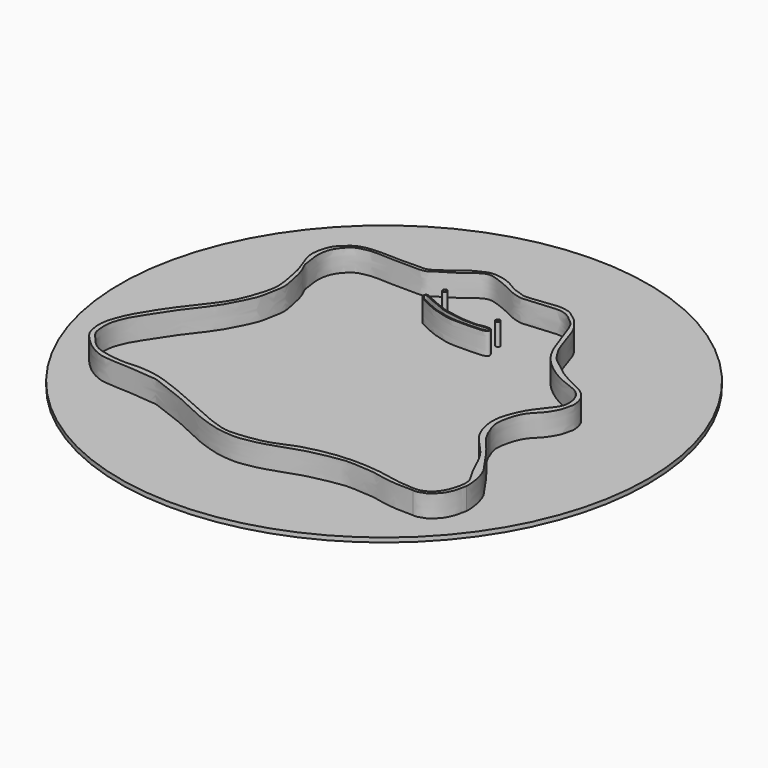
from build123d import *

# Parameters (mm, degrees)
F1_DEPTH = 5
F0_R     = 0.5
F0_R_2   = 0.4019088988
F0_R_3   = 0.3807974737
F2_R     = 60
F3_DEPTH = 1


with BuildPart() as f1:
    # F0 (on Top) → F1 (new body)
    with BuildSketch(Plane.XY):
        with BuildLine():
            add(Edge.make_bspline(
                [(0.9019973658, 34.2074594882), (1.5007506377, 33.9784894893), (2.640191058, 33.5427546314), (4.0934646266, 33.7217133103), (6.4395176008, 34.0002020957), (7.857401485, 34.2187022724), (10.1894956538, 34.4372873604), (11.557136625, 34.2227313812), (12.7937884439, 33.968567562), (13.9776310674, 32.9841589885), (15.4809917483, 31.9807538744), (16.4732420024, 30.5869937867), (17.0183017612, 29.8213779211)],
                knots=[0, 0, 0, 0, 0.1012928046, 0.1927623969, 0.3064661487, 0.3998824342, 0.5132845397, 0.6025944378, 0.6847700242, 0.7764089052, 0.8771776498, 1, 1, 1, 1], degree=3))
            add(Edge.make_bspline(
                [(-34.4537368375, 13.5981210018), (-34.6274501531, 14.570419284), (-34.9637470169, 16.4527209471), (-35.8309585023, 18.7781171402), (-36.7966806248, 21.2523054042), (-37.0213667547, 22.9143775057), (-36.8116340724, 24.5471250748), (-36.3269288421, 26.3833008742), (-35.4532590511, 27.8712313863), (-33.6368939706, 29.4809436959), (-32.5165364282, 30.2500905592), (-30.3555616979, 30.7735501388), (-28.6864170066, 30.8734054085), (-26.2397414502, 30.9337518934), (-23.192175899, 30.6889586097), (-19.7953166092, 30.9961106148), (-17.3312758925, 30.6712699107), (-15.368968181, 32.0275028003), (-12.7925622226, 33.7344098783), (-11.2861162316, 35.2486571282), (-9.6396548219, 35.9868285709), (-7.8575667448, 36.9577012932), (-5.9938634638, 36.9804554242), (-3.9166036402, 36.5358251697), (-2.3753484366, 35.8609653259), (-1.1301171875, 35.0376864776), (-0.0299595415, 34.4491945531), (0.6055590799, 34.2843509493), (0.9019973658, 34.2074594882)],
                knots=[0, 0, 0, 0, 0.0456850162, 0.0884430051, 0.1319456261, 0.1664412478, 0.2006038253, 0.2372152687, 0.2728880319, 0.3140375703, 0.3459252541, 0.3849488964, 0.4201416007, 0.4615226973, 0.5091236179, 0.5589902613, 0.6001519517, 0.6407390807, 0.6882580573, 0.7273726599, 0.7631068714, 0.8008747043, 0.837312223, 0.8763487026, 0.9112898359, 0.9440554126, 0.9739045922, 1, 1, 1, 1], degree=3))
            add(Edge.make_bspline(
                [(33.8894052299, -36.9521795011), (33.0808570617, -36.9622307109), (31.521325449, -36.9816175329), (29.4483074504, -36.8420635389), (27.2655975796, -36.6154926525), (24.7806355381, -36.037789552), (23.4308080209, -35.826385576), (21.8452481268, -35.8354042539), (20.4557402288, -35.6041019139), (17.6615554352, -35.5451971541), (16.7393525781, -35.6437536933), (12.5882306641, -36.3302633497), (9.2014557043, -37.0979257511), (5.9932268455, -38.2774070972), (3.4544549962, -39.1156486852), (0.9560775869, -39.9365388527), (-2.415051692, -40.5654782247), (-4.7177555446, -40.6190929326), (-7.6927417123, -40.3132904934), (-10.5604265753, -39.4732969578), (-13.9511323449, -38.3389600595), (-18.0654905439, -36.1473293241), (-21.5128261405, -34.7110087371), (-23.8298162755, -33.8196966481), (-28.525533088, -31.984467461), (-29.2878863684, -32.0981954067), (-32.2108366096, -31.7452187761), (-35.8195900211, -31.4408995264), (-40.5731363077, -31.3641274626), (-42.6849496831, -30.7753970739), (-45.4165604689, -29.357425625), (-48.2259123653, -26.55473657), (-49.091865739, -25.0129252261), (-49.4890603018, -22.8320080968), (-49.5485224688, -20.4419920459), (-47.98703826, -16.2061361831), (-46.2819037878, -13.3206683742), (-43.9265820004, -9.5478661035), (-40.1828964069, -4.6313934946), (-37.9415275145, -1.8343801888), (-36.2690531842, 0.8849696517), (-35.1000378442, 4.0178553606), (-34.1016538776, 7.0504072456), (-33.7506496676, 9.9822375982), (-34.2101418434, 12.3453444839), (-34.4537368375, 13.5981210018)],
                knots=[0, 0, 0, 0, 0.0209448111, 0.0403984528, 0.0607561262, 0.0823290365, 0.0983676837, 0.1148502146, 0.1317030625, 0.1537738482, 0.1675951865, 0.1946691617, 0.2210574468, 0.2458797767, 0.2679402424, 0.2901067061, 0.3150497981, 0.3358634851, 0.3590004598, 0.3824575373, 0.4081680406, 0.4377950479, 0.4635214999, 0.4862291056, 0.5158153605, 0.5281142092, 0.5501829277, 0.5773187299, 0.6066076108, 0.6265668433, 0.6502888374, 0.6772257083, 0.6952413691, 0.7147181918, 0.7358681612, 0.7643486278, 0.7894012545, 0.8181018315, 0.8520168117, 0.8778685236, 0.9017396709, 0.9266143292, 0.950803505, 0.9739189903, 1, 1, 1, 1], degree=3))
            add(Edge.make_bspline(
                [(40.2787260488, -29.719233997), (40.1101984508, -30.6891865059), (40.0742613878, -30.5566696344), (39.9952976221, -30.8923733981), (39.9788864118, -31.1571621845), (39.7934956739, -32.2074335036), (39.1404370317, -33.5860232661), (38.7406873979, -34.3350989954), (37.902402552, -35.2519305887), (37.4352333986, -35.7400997586), (36.6992478008, -36.3061403044), (35.8113475494, -36.6287563396), (34.7548162901, -37.0183808731), (34.1631660577, -36.9745951517), (33.8894052299, -36.9521795011)],
                knots=[0, 0, 0, 0, 0.0909286616, 0.1303821357, 0.1768378275, 0.2697647709, 0.3832141869, 0.469269506, 0.5684833829, 0.6448597203, 0.7302934206, 0.8200456896, 0.9159863595, 1, 1, 1, 1], degree=3))
            add(Edge.make_bspline(
                [(30.3449238375, -10.9633611649), (30.4170975779, -11.1957234097), (30.5728233772, -11.6970802196), (31.1981484603, -12.5559708755), (31.4777269373, -13.329894409), (32.3433577814, -14.3224439373), (32.8691874759, -14.9682604313), (33.8599544792, -16.0702047232), (34.4500082103, -16.9189504526), (35.4044148963, -18.117173156), (36.1571945176, -19.2584725699), (36.8910954888, -20.2743101775), (37.6713821058, -21.6023263223), (38.8073653148, -22.9422160539), (39.2838247781, -24.1002601349), (39.7418045298, -25.399459435), (40.0993880429, -26.8799564923), (40.2319415369, -28.291949521), (40.3158072665, -29.2354144067), (40.2787260488, -29.719233997)],
                knots=[0, 0, 0, 0, 0.0457564362, 0.0988415218, 0.1472602377, 0.2058855052, 0.2553842705, 0.3177856148, 0.3722851617, 0.4365248205, 0.498140506, 0.5562853521, 0.6216241164, 0.6908527179, 0.7492077169, 0.8103311559, 0.8750420787, 0.9374576867, 1, 1, 1, 1], degree=3))
            add(Edge.make_bspline(
                [(34.1052701076, 10.4463365136), (34.3744058002, 10.1589461134), (34.914009976, 9.5827421231), (35.3498442265, 8.4924754754), (35.6122252639, 7.1908992442), (35.6579394661, 6.469054882), (35.4577673992, 5.5015072226), (35.2293136983, 4.5880008945), (34.9613127815, 3.6046559327), (34.313181526, 2.4499737166), (33.5692471354, 1.270804126), (32.8741862126, 0.4716985715), (31.9135587571, -0.4456165579), (30.9923252634, -1.5224612034), (30.4891155623, -2.5941494185), (30.1067498977, -3.4089961988), (29.497129405, -5.5137622078), (29.2353343315, -7.6834407233), (29.6073059509, -9.1578726334), (29.7960466629, -9.7264876773), (30.026324179, -10.0610308151), (30.2134003551, -10.6710912781), (30.3449238375, -10.9633611649)],
                knots=[0, 0, 0, 0, 0.0504385371, 0.1014317184, 0.1548138167, 0.1947337951, 0.240436549, 0.2860844534, 0.332909358, 0.3869744408, 0.4421600255, 0.4901840102, 0.5438975671, 0.6001129481, 0.6498934772, 0.6940178784, 0.7626913778, 0.833616381, 0.8902498134, 0.9248331611, 0.9541681317, 1, 1, 1, 1], degree=3))
            add(Edge.make_bspline(
                [(17.0183017612, 29.8213779211), (17.1987019207, 29.5548502156), (17.5761281068, 28.9972313327), (17.9835110556, 27.9046137776), (18.5061604027, 26.6287401435), (18.790112309, 25.4485839754), (19.1730782192, 24.2172692233), (19.5186936427, 23.2095234696), (19.8346365276, 22.5414089353), (20.1984615936, 21.4925370096), (20.762708417, 20.5642694497), (21.6728759428, 19.0257147123), (22.6137643463, 17.9104093367), (24.7264706321, 16.362518217), (25.6464486483, 15.5589748843), (27.0637885826, 14.569308685), (28.5137325427, 13.7081400351), (29.9477649722, 13.1067951275), (31.2814635342, 12.384288918), (32.6642746835, 11.7514884054), (33.3966383493, 11.1676643386), (33.9243926878, 10.7478005057), (34.1052701076, 10.4463365136)],
                knots=[0, 0, 0, 0, 0.0429335715, 0.0898842195, 0.1408498275, 0.1889930153, 0.238507687, 0.2829136429, 0.3202898368, 0.3650351554, 0.4111330546, 0.4680334039, 0.5222360576, 0.5913995782, 0.6406013611, 0.6966538166, 0.753595171, 0.8074869999, 0.8614882432, 0.9146548899, 0.9566316163, 1, 1, 1, 1], degree=3))
        make_face()
        with BuildLine():
            add(Edge.make_bspline(
                [(-35.3152006865, 18.8257205003), (-35.1376038573, 18.2590816211), (-34.2787518112, 16.7717799382), (-33.7399997417, 14.5755472884), (-33.3717895439, 12.7259503186), (-32.8000158092, 10.2673598598), (-33.2017573779, 7.433248217), (-33.6220441902, 5.4332401219), (-34.0622085442, 3.5526727104), (-35.905809709, -0.1509327135), (-37.8306165434, -3.6840302283), (-41.6410488856, -8.1564650596), (-45.4391677698, -14.1975176783), (-47.0623250936, -16.5931722414), (-48.5863997839, -20.5048641186), (-48.3160881461, -22.9607714621), (-48.2090696704, -24.6882005166), (-47.0035712704, -26.1897071279), (-44.7621589313, -28.9292477444), (-42.0062541785, -29.9073346719), (-37.1756684482, -30.663701658), (-33.8245799337, -30.1425402233), (-29.229490011, -30.7112796246), (-25.3489817176, -32.0562751327), (-19.8606029475, -34.2163823024), (-8.4169678739, -39.7267042814), (-4.0838719186, -39.6782281932), (2.6036478716, -38.7907984703), (6.7466847371, -36.3672437901), (16.263587145, -34.2437645013), (25.0224181446, -34.9216507062), (28.7094757642, -35.8704309988), (31.9034388027, -36.2519830375), (35.4965067209, -36.458738601), (38.3671442143, -33.9340833159), (39.4869445909, -30.069970199), (39.4898928339, -27.472160896), (37.3824865674, -24.9521366534), (34.92892717, -17.9500899157), (29.4834191188, -13.9504580571), (27.8875726503, -7.7773792), (28.670788775, -4.0593392685), (30.4720012154, 0.092403522), (33.4867094238, 3.4620211102), (34.7161465241, 5.6106154541), (34.3990698547, 8.829081174), (32.4143233621, 11.3186166788), (27.8589544756, 12.3209571652), (22.048467033, 16.393240112), (19.4820781515, 20.4451151371), (17.7680543389, 25.3669553083), (16.2202682844, 30.2224444477), (14.8036612682, 31.331097505), (12.5529087745, 33.3417496639), (9.4443865523, 33.3650728987), (6.6804364413, 32.9465022627), (3.45817272, 32.7338103399), (2.7731673883, 32.6895974228), (0.4576835263, 33.1365860339), (-1.8140439851, 34.4625635059), (-5.3037666644, 35.9082506428), (-7.7161611815, 36.4650726072), (-9.7691645548, 35.08718638), (-12.0797702687, 33.1592213573), (-15.9070648937, 31.06691413), (-17.0315645417, 29.8868742106), (-21.6826486834, 30.0592623697), (-25.4064781916, 30.0518043964), (-29.1785395476, 30.3046779998), (-30.591846031, 29.9347058095), (-32.4275231912, 29.6138908927), (-33.9853424248, 28.211415829), (-35.4677204178, 26.2486049714), (-36.0893450552, 23.1613127909), (-35.4313580919, 20.0864022114), (-35.4479054265, 19.2491270753), (-35.3152006865, 18.8257205003)],
                knots=[0, 0, 0, 0, 0.0107279269, 0.0215853919, 0.031378198, 0.0427073906, 0.0548483605, 0.0649514107, 0.0748081295, 0.089163249, 0.1036280658, 0.1212238834, 0.1402206615, 0.1526958764, 0.1670027843, 0.1782624476, 0.1872722203, 0.1970821173, 0.2102972355, 0.2226443659, 0.2382174362, 0.2516444428, 0.2667584731, 0.2809926106, 0.2988030905, 0.3240416061, 0.3393516787, 0.3571877139, 0.3730474872, 0.3953457723, 0.4166826519, 0.4304194632, 0.4431012051, 0.4563391322, 0.4698244928, 0.4840624192, 0.495096098, 0.5076690165, 0.5269266309, 0.5455897682, 0.5629247966, 0.5767506753, 0.5919512322, 0.6071130314, 0.618179597, 0.6305122402, 0.6426813795, 0.6579954901, 0.6769228728, 0.692535095, 0.7091339129, 0.7249357719, 0.7344031579, 0.7464019279, 0.7587345711, 0.7712308844, 0.7837121931, 0.789776972, 0.8002196953, 0.8122377539, 0.8261764061, 0.8371144326, 0.8477598777, 0.8606103622, 0.8753277831, 0.8843058168, 0.8991203163, 0.9137465483, 0.9273094821, 0.9359453255, 0.9453929675, 0.9556240052, 0.9667395407, 0.9794788532, 0.9919838279, 1, 1, 1, 1], degree=3))
        make_face(mode=Mode.SUBTRACT)
    extrude(amount=F1_DEPTH)


with BuildPart() as f1b:
    # F0 (on Top) → F1, piece 2 (new body)
    with BuildSketch(Plane.XY):
        with BuildLine():
            add(Edge.make_bspline(
                [(-11.0718160868, 23.3150534332), (-10.9156014018, 23.3328725388), (-10.5416450445, 23.2026048284), (-9.9411558817, 22.8725162845), (-9.3240385539, 22.5915102475), (-8.4005149947, 22.1141960742), (-7.7317568148, 21.8614772575), (-6.7274977538, 21.5436056548), (-5.3433443225, 20.8241269634), (-3.6157714026, 20.5297132289), (-2.0050461413, 20.2086414894), (0.0189374686, 19.9417461524), (1.0480091179, 19.960720823), (2.8942517677, 19.8008461646), (4.188675079, 20.2480333192), (5.1792292893, 20.2063332827), (5.889475294, 20.250161348), (6.0322742167, 19.8494603889), (6.3302935563, 19.3319520857), (5.5030940651, 18.7437610448), (4.4535548854, 18.6840669517), (3.732202504, 18.6982660611), (3.0487096155, 18.5842911891), (1.3406697326, 18.5690110052), (-0.2332500032, 18.5750098731), (-1.6272985625, 18.5683176476), (-3.1725913305, 18.7108309499), (-4.2339051334, 19.0556745274), (-5.650706341, 19.3727951148), (-6.9499299437, 19.83955909), (-9.1520565289, 20.7796278099), (-10.6241325095, 21.5383379705), (-11.333812295, 22.0801021675), (-11.5152857831, 22.6046952104), (-11.4626689368, 23.1439552415), (-11.2056404041, 23.2997883533), (-11.0718160868, 23.3150534332)],
                knots=[0, 0, 0, 0, 0.0206496596, 0.0442354512, 0.0681346668, 0.096957553, 0.1212115107, 0.1500027558, 0.1857569728, 0.2233361119, 0.2607377678, 0.3007951564, 0.3304538759, 0.3686586578, 0.4023030146, 0.4308224642, 0.4531840787, 0.4704755811, 0.4903308166, 0.5164809796, 0.5462967786, 0.5700560858, 0.5934977834, 0.6306055158, 0.6670311721, 0.7008617741, 0.7359967612, 0.7664141734, 0.8000350309, 0.8340820013, 0.8784520732, 0.915698995, 0.9416034472, 0.962221789, 0.9823100715, 1, 1, 1, 1], degree=3))
        make_face()
        with BuildLine():
            add(Edge.make_bspline(
                [(-11.2137915567, 23.0218060315), (-11.2969352406, 22.9697193927), (-11.2997381615, 22.6478574482), (-11.0175123658, 22.24427491), (-10.6958997137, 21.8593041713), (-9.0867197741, 21.0927739603), (-7.0291726204, 20.1097453454), (-5.6496455891, 19.6204711878), (-4.2291922709, 19.4292568058), (-3.17862884, 19.0371497378), (-1.7113541297, 18.8974688602), (-0.3573045503, 18.7671855919), (1.3516633248, 18.8566617629), (2.9710152148, 18.9107615757), (3.7357685057, 18.8892477514), (4.4579226932, 18.932882275), (5.1279555818, 19.0728920225), (6.0339982588, 19.2926473215), (5.8474337381, 19.7480322861), (5.7171534892, 20.0352991164), (5.4820253828, 19.9615824119), (4.1154533743, 19.9364357677), (2.918533146, 19.6266100296), (1.0199288326, 19.7427313679), (0.0176988642, 19.6285771509), (-2.0186592968, 20.0791688097), (-3.6548013796, 20.2626321754), (-5.3493497138, 20.5013336924), (-6.7567626095, 21.2810448979), (-7.7520688355, 21.6550140075), (-8.3959966748, 21.8532972234), (-9.4145451479, 22.3726579092), (-9.9499156234, 22.5864998724), (-10.5474110932, 22.8769487986), (-11.0997427378, 23.0932536671), (-11.2137915567, 23.0218060315)],
                knots=[0, 0, 0, 0, 0.0172660288, 0.038100182, 0.0585296257, 0.0977937704, 0.143810131, 0.1800755579, 0.2150537136, 0.2467588535, 0.2824798646, 0.3174876036, 0.3569311646, 0.394862015, 0.4208342843, 0.4454376557, 0.4713786368, 0.4975634976, 0.5156753342, 0.5313543763, 0.5441938886, 0.5780348721, 0.6131662557, 0.6531922057, 0.6838689944, 0.7260801303, 0.7652250704, 0.8039460932, 0.8418825359, 0.8720181046, 0.8968389794, 0.9283171378, 0.9512071267, 0.976316058, 1, 1, 1, 1], degree=3))
        make_face(mode=Mode.SUBTRACT)
    extrude(amount=F1_DEPTH)


with BuildPart() as f1c:
    # F0 (on Top) → F1, piece 3 (new body)
    with BuildSketch(Plane.XY):
        with Locations((-9.6295397303, 26.4867252302)):
            Circle(F0_R)
        with Locations((-9.6295397303, 26.4867252302)):
            Circle(F0_R_2, mode=Mode.SUBTRACT)
    extrude(amount=F1_DEPTH)


with BuildPart() as f1d:
    # F0 (on Top) → F1, piece 4 (new body)
    with BuildSketch(Plane.XY):
        with Locations((4.8999113285, 23.356987053)):
            Circle(F0_R)
        with Locations((4.8999113285, 23.356987053)):
            Circle(F0_R_3, mode=Mode.SUBTRACT)
    extrude(amount=F1_DEPTH)


with BuildPart() as f3:
    # F2 (on Top) → F3 (new body)
    with BuildSketch(Plane.XY):
        with Locations((-2.269563498, 0)):
            Circle(F2_R)
    extrude(amount=-F3_DEPTH)


solid = Compound([f1.part, f1b.part, f1c.part, f1d.part, f3.part])
